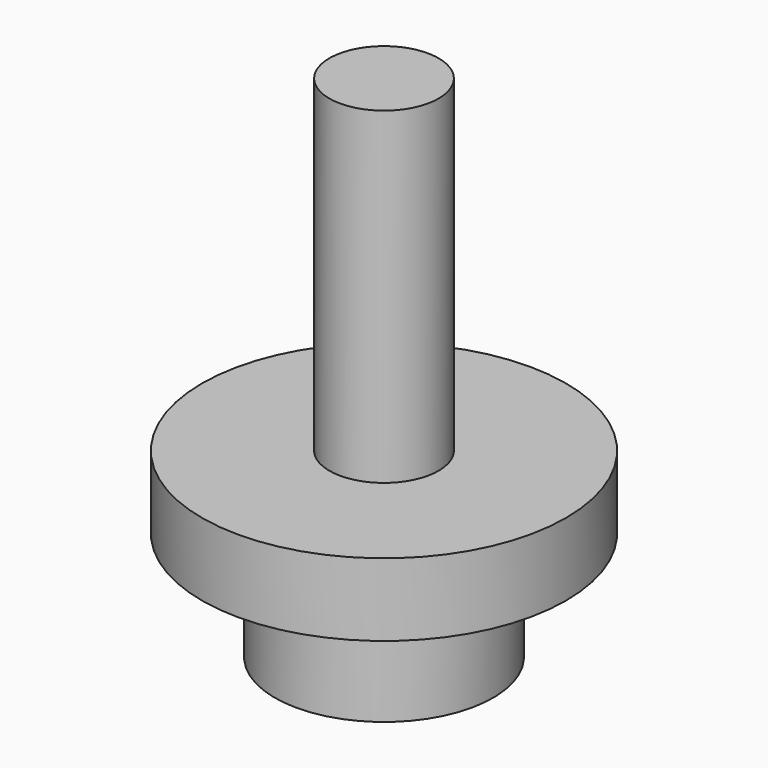
from build123d import *

# Parameters (mm, degrees)
F0_W   = 1.5
F0_H   = 9
F0_W_2 = 3
F0_H_2 = 3


with BuildPart() as f1:
    # F0 (on Right) → F1 (revolve)
    with BuildSketch(Plane.YZ):
        Polygon((3, -4.11543), (3, -2.11543), (1.5, -2.11543), (-2, -2.11543), (-2, -4.11543), (0, -4.11543), align=None)
        with Locations((2.25, 2.38457)):
            Rectangle(F0_W, F0_H)
        with Locations((1.5, -5.61543)):
            Rectangle(F0_W_2, F0_H_2)
    revolve(axis=Axis((0, 3, 2.38457), (0, 0, 1)))


solid = f1.part
